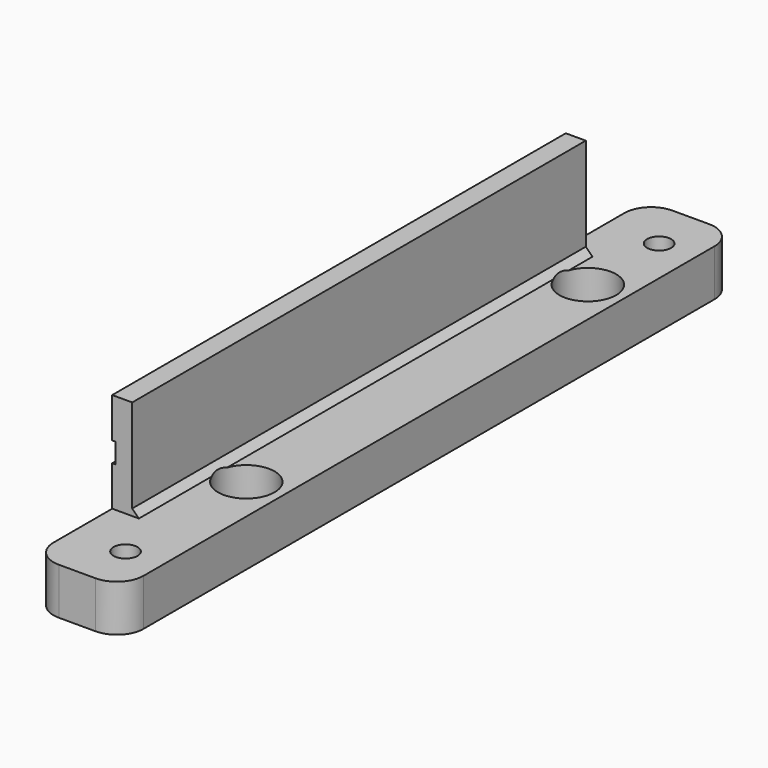
from build123d import *

# Parameters (mm, degrees)
SKETCH008_W     = 13.5
SKETCH008_H     = 115
PAD001_DEPTH    = 22
SKETCH009_W     = 16
SKETCH009_H     = 16
POCKET007_DEPTH = 30
SKETCH010_R     = 1.8
POCKET008_DEPTH = 22.001
SKETCH011_R     = 3.6
POCKET009_DEPTH = 18
SKETCH012_W     = 11
SKETCH012_H     = 85
POCKET010_DEPTH = 15
CHAMFER001_SIZE = 1
SKETCH013_W     = 87.5
SKETCH013_H     = 3
POCKET011_DEPTH = 0.5
SKETCH014_R     = 1.8
POCKET012_DEPTH = 22.001
SKETCH015_R     = 3.6
POCKET013_DEPTH = 3
FILLET003_R     = 4
SKETCH016_R     = 4.25
POCKET014_DEPTH = 5
SKETCH017_R     = 1.8
POCKET015_DEPTH = 19.001


with BuildPart() as part:
    # Sketch008 → Pad001 (new body)
    with BuildSketch(Plane.XY):
        with Locations((-71.25, 57.5)):
            Rectangle(SKETCH008_W, SKETCH008_H)
    extrude(amount=PAD001_DEPTH)

    # Sketch009 → Pocket007 (cut)
    with BuildSketch(Plane(origin=(-78, 0, 0), x_dir=(0, -1, 0), z_dir=(-1, 0, 0))):
        with Locations((-108, 15)):
            Rectangle(SKETCH009_W, SKETCH009_H)
        with Locations((-7, 15)):
            Rectangle(SKETCH009_W, SKETCH009_H)
    extrude(amount=-POCKET007_DEPTH, mode=Mode.SUBTRACT)

    # Sketch010 → Pocket008 (cut, through all)
    with BuildSketch(Plane.XY.offset(22)):
        with Locations((-70.00164, 94.105309)):
            Circle(SKETCH010_R)
        with Locations((-69.993416, 30.102623)):
            Circle(SKETCH010_R)
    extrude(amount=-POCKET008_DEPTH, mode=Mode.SUBTRACT)

    # Sketch011 → Pocket009 (cut)
    with BuildSketch(Plane.XY.offset(22)):
        with Locations((-70, 94.117142)):
            Circle(SKETCH011_R)
        with Locations((-70, 30.122299)):
            Circle(SKETCH011_R)
    extrude(amount=-POCKET009_DEPTH, mode=Mode.SUBTRACT)

    # Sketch012 → Pocket010 (cut)
    with BuildSketch(Plane.XY.offset(22)):
        with Locations((-69.5, 57.5)):
            Rectangle(SKETCH012_W, SKETCH012_H)
    extrude(amount=-POCKET010_DEPTH, mode=Mode.SUBTRACT)

    # Chamfer001
    chamfer001_edges = [part.edges().sort_by_distance(p)[0] for p in [
        (-75, 57.5, 7),
    ]]
    chamfer(chamfer001_edges, length=CHAMFER001_SIZE)

    # Sketch013 → Pocket011 (cut)
    with BuildSketch(Plane(origin=(-78, 0, 0), x_dir=(0, -1, 0), z_dir=(-1, 0, 0))):
        with Locations((-57.75, 14.5)):
            Rectangle(SKETCH013_W, SKETCH013_H)
    extrude(amount=-POCKET011_DEPTH, mode=Mode.SUBTRACT)

    # Sketch014 → Pocket012 (cut, through all)
    with BuildSketch(Plane(origin=(0, 0, 0), x_dir=(1, 0, 0), z_dir=(0, 0, -1))):
        with Locations((-70, -7.5)):
            Circle(SKETCH014_R)
        with Locations((-70, -107.5)):
            Circle(SKETCH014_R)
    extrude(amount=-POCKET012_DEPTH, mode=Mode.SUBTRACT)

    # Sketch015 → Pocket013 (cut)
    with BuildSketch(Plane(origin=(0, 0, 0), x_dir=(1, 0, 0), z_dir=(0, 0, -1))):
        with Locations((-70, -7.5)):
            Circle(SKETCH015_R)
        with Locations((-70, -107.5)):
            Circle(SKETCH015_R)
    extrude(amount=-POCKET013_DEPTH, mode=Mode.SUBTRACT)

    # Fillet003
    fillet003_edges = [part.edges().sort_by_distance(p)[0] for p in [
        (-78, 0, 3.5),
        (-64.5, 0, 3.5),
        (-64.5, 115, 3.5),
        (-78, 115, 3.5),
    ]]
    fillet(fillet003_edges, radius=FILLET003_R)

    # Sketch016 → Pocket014 (cut, symmetric)
    with BuildSketch(Plane.XY.offset(7)):
        with Locations((-70, 94.135872)):
            Circle(SKETCH016_R)
        with Locations((-70, 30.123001)):
            Circle(SKETCH016_R)
    extrude(amount=POCKET014_DEPTH, both=True, mode=Mode.SUBTRACT)

    # Sketch017 → Pocket015 (cut, through all)
    with BuildSketch(Plane(origin=(0, 0, 3), x_dir=(1, 0, 0), z_dir=(0, 0, -1))):
        with Locations((-70, 30.106855)):
            Circle(SKETCH017_R)
        with Locations((-70, 94.115112)):
            Circle(SKETCH017_R)
    extrude(amount=-POCKET015_DEPTH, mode=Mode.SUBTRACT)


solid = part.part
